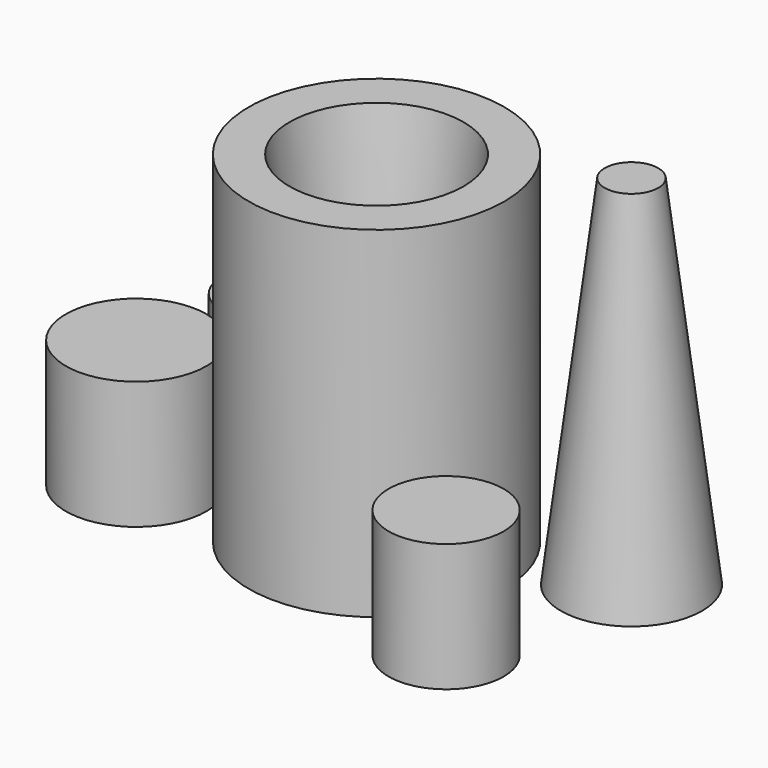
from build123d import *

# Parameters (mm, degrees)
F0_R      = 19.05
F1_DEPTH  = 50.8
F2_R      = 12.9667
F3_DEPTH  = 50.801
F3_TAPER  = 7
F4_R      = 6.6675
F5_DEPTH  = 19.05
F6_R      = 8.5725
F7_DEPTH  = 19.05
F8_R      = 10.4775
F9_DEPTH  = 19.05
F10_R     = 10.541
F11_DEPTH = 53.34
F11_TAPER = 7


with BuildPart() as f1:
    # F0 (on Top) → F1 (new body)
    with BuildSketch(Plane.XY):
        Circle(F0_R)
    extrude(amount=F1_DEPTH)

    # F2 (on face) → F3 (cut, through all)
    with BuildSketch(Plane.XY.offset(50.8)):
        Circle(F2_R)
    extrude(amount=-F3_DEPTH, taper=F3_TAPER, mode=Mode.SUBTRACT)


with BuildPart() as f5:
    # F4 (on Top) → F5 (new body)
    with BuildSketch(Plane.XY):
        with Locations((-26.2140743434, 12.1918460354)):
            Circle(F4_R)
    extrude(amount=F5_DEPTH)


with BuildPart() as f7:
    # F6 (on Top) → F7 (new body)
    with BuildSketch(Plane.XY):
        with Locations((24.2217630148, -17.3184871674)):
            Circle(F6_R)
    extrude(amount=F7_DEPTH)


with BuildPart() as f9:
    # F8 (on Top) → F9 (new body)
    with BuildSketch(Plane.XY):
        with Locations((-30.6853372604, -6.4086052589)):
            Circle(F8_R)
    extrude(amount=F9_DEPTH)


with BuildPart() as f11:
    # F10 (on Top) → F11 (new body)
    with BuildSketch(Plane.XY):
        with Locations((29.944980517, 10.0456401706)):
            Circle(F10_R)
    extrude(amount=F11_DEPTH, taper=F11_TAPER)


solid = Compound([f1.part, f5.part, f7.part, f9.part, f11.part])
